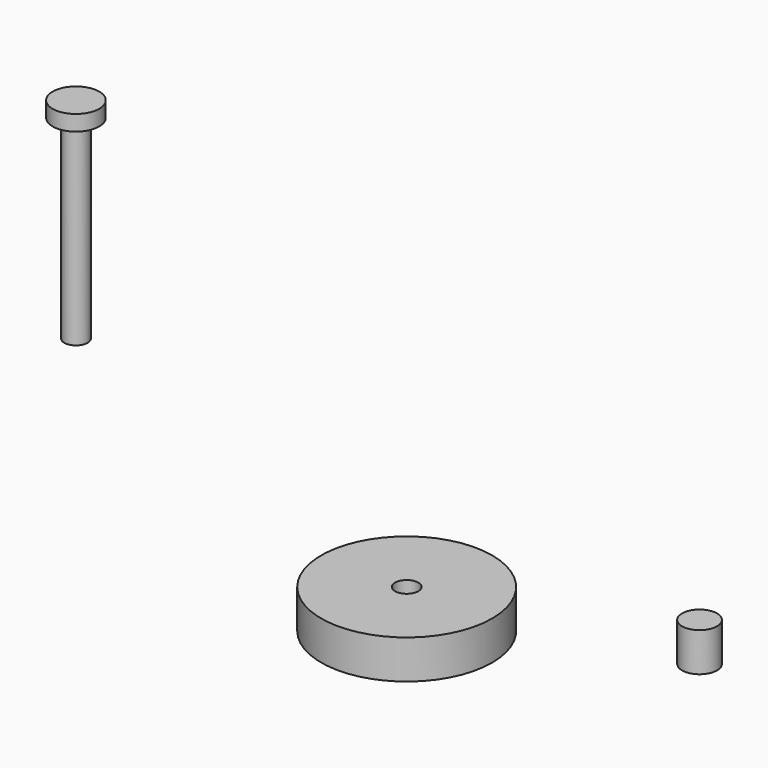
from build123d import *

# Parameters (mm, degrees)
F0_R     = 11
F0_R_2   = 1.5
F0_R_3   = 2.25
F1_DEPTH = 5
F2_DEPTH = 25
F3_R     = 3
F3_R_2   = 1.5
F4_DEPTH = 2


with BuildPart() as f1:
    # F0 (on Top) → F1 (new body)
    with BuildSketch(Plane.XY):
        Circle(F0_R)
        Circle(F0_R_2, mode=Mode.SUBTRACT)
        with Locations((27.450711, 12.791183)):
            Circle(F0_R_3)
    extrude(amount=F1_DEPTH)


with BuildPart() as f2:
    # F0 (on Top) → F2 (new body)
    with BuildSketch(Plane.XY):
        with Locations((-65.70781, 28.93866)):
            Circle(F0_R_2)
    extrude(amount=F2_DEPTH)

    # F3 (on face) → F4 (join)
    with BuildSketch(Plane.XY.offset(25)):
        with Locations((-65.70781, 28.93866)):
            Circle(F3_R)
        with Locations((-65.70781, 28.93866)):
            Circle(F3_R_2, mode=Mode.SUBTRACT)
        with Locations((-65.70781, 28.93866)):
            Circle(F3_R_2)
    extrude(amount=F4_DEPTH)


solid = Compound([f1.part, f2.part])
